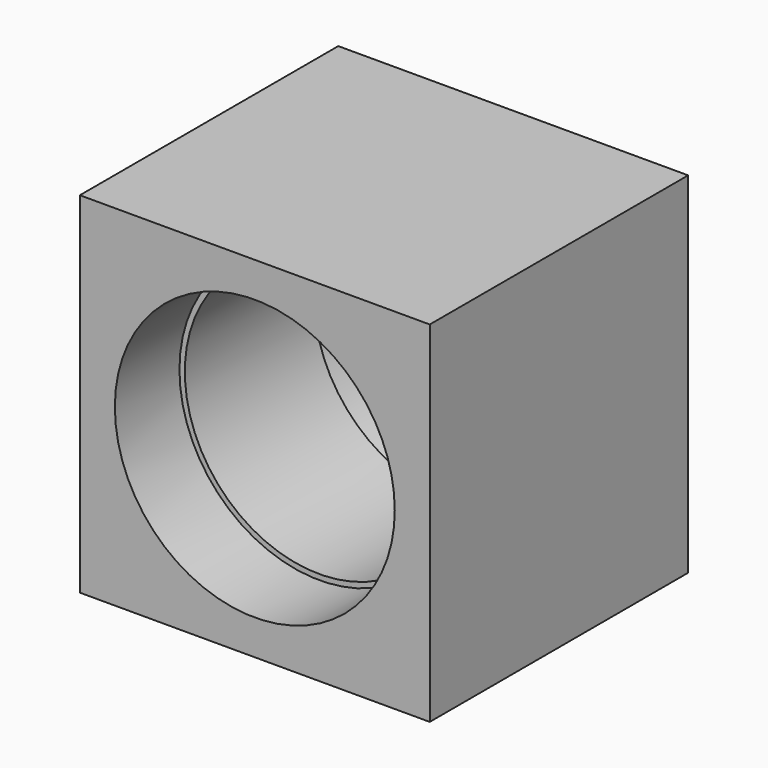
from build123d import *

# Parameters (mm, degrees)
F0_W     = 65
F0_H     = 65
F0_R     = 26
F1_DEPTH = 60
F3_R     = 26
F3_R_2   = 25
F4_DEPTH = 15


with BuildPart() as f1:
    # F0 (on Front) → F1 (new body)
    with BuildSketch(Plane.XZ):
        Rectangle(F0_W, F0_H)
        Circle(F0_R, mode=Mode.SUBTRACT)
    extrude(amount=F1_DEPTH)

    # F3 (on offset) → F4 (join, symmetric)
    with BuildSketch(Plane.XZ.offset(30)):
        Circle(F3_R)
        Circle(F3_R_2, mode=Mode.SUBTRACT)
    extrude(amount=F4_DEPTH, both=True)


solid = f1.part
